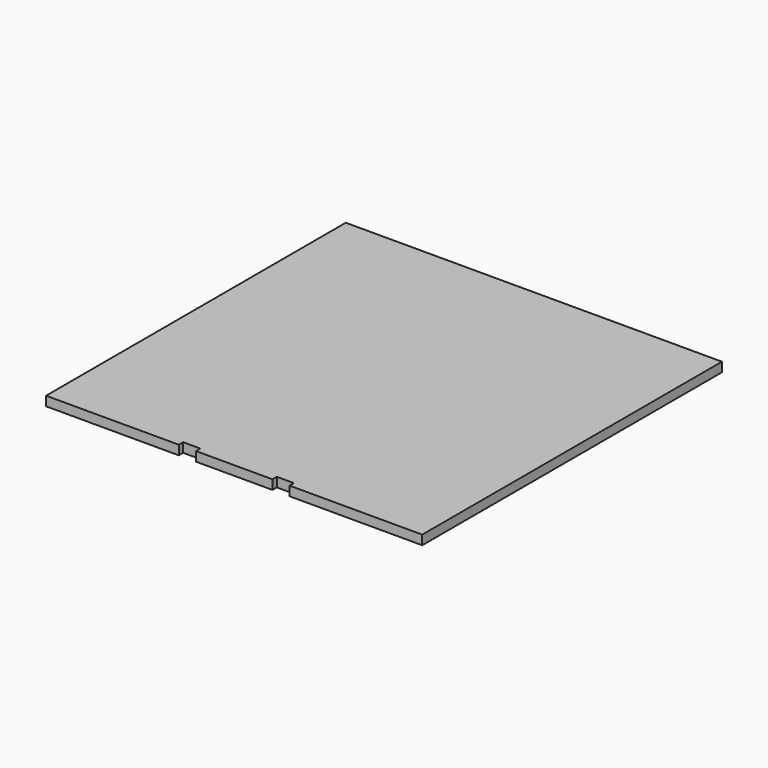
from build123d import *

# Parameters (mm, degrees)
F0_W     = 482
F0_H     = 480
F1_DEPTH = 6
F2_W     = 22
F2_H     = 7
F3_DEPTH = 12.001


with BuildPart() as f1:
    # F0 (on Top) → F1 (new body, symmetric)
    with BuildSketch(Plane.XY):
        Rectangle(F0_W, F0_H)
    extrude(amount=F1_DEPTH, both=True)

    # F2 (on face) → F3 (cut, through all)
    with BuildSketch(Plane.XY.offset(6)):
        with Locations((-60, -236.5)):
            Rectangle(F2_W, F2_H)
        with Locations((60, -236.5)):
            Rectangle(F2_W, F2_H)
    extrude(amount=-F3_DEPTH, mode=Mode.SUBTRACT)


solid = f1.part
